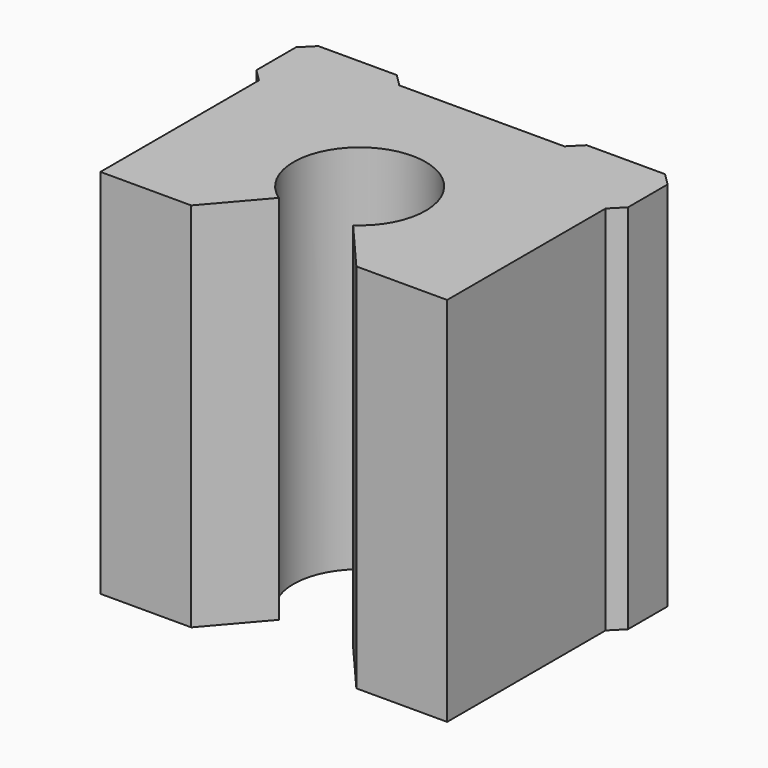
from build123d import *

# Parameters (mm, degrees)
PAD_DEPTH    = 22.5
SKETCH001_R  = 3
POCKET_DEPTH = 20


with BuildPart() as part:
    # Sketch → Pad (new body, symmetric)
    with BuildSketch(Plane.XY):
        with BuildLine():
            ThreePointArc((4.5, -6.614378), (0, 8), (-4.5, -6.614378))
            Line((-10, -13), (-4.5, -6.614378))
            Line((-10, -13), (-21, -13))
            Line((-21, -13), (-21, 11))
            Line((-21, 11), (-22.5, 12.5))
            Line((-22.5, 12.5), (-22.5, 18.5))
            Line((-22.5, 18.5), (-21, 20))
            Line((-21, 20), (-11.5, 20))
            Line((-11.5, 20), (-10, 18.5))
            Line((-10, 18.5), (10, 18.5))
            Line((10, 18.5), (11.5, 20))
            Line((11.5, 20), (21, 20))
            Line((21, 20), (22.5, 18.5))
            Line((22.5, 18.5), (22.5, 12.5))
            Line((22.5, 12.5), (21, 11))
            Line((21, 11), (21, -13))
            Line((21, -13), (10, -13))
            Line((10, -13), (4.5, -6.614378))
        make_face()
    extrude(amount=PAD_DEPTH, both=True)

    # Sketch001 → Pocket (cut)
    with BuildSketch(Plane.XZ.offset(-20)):
        with Locations((-16, 15)):
            Circle(SKETCH001_R)
        with Locations((16, 15)):
            Circle(SKETCH001_R)
        with Locations((16, -15)):
            Circle(SKETCH001_R)
        with Locations((-16, -15)):
            Circle(SKETCH001_R)
    extrude(amount=POCKET_DEPTH, mode=Mode.SUBTRACT)


solid = part.part
